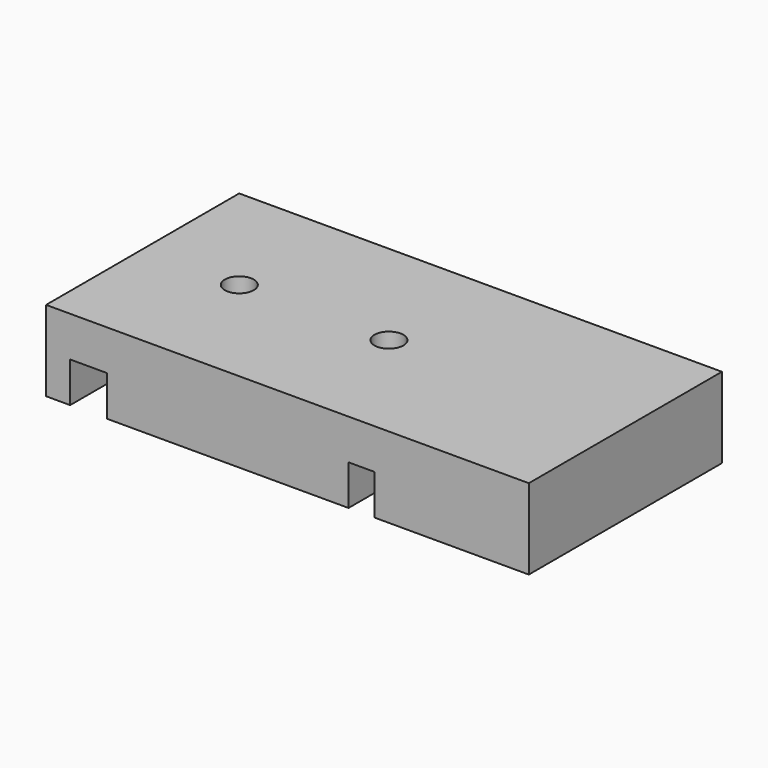
from build123d import *

# Parameters (mm, degrees)
F0_W     = 60
F0_H     = 30
F1_DEPTH = 5
F2_W     = 3.2
F2_H     = 30
F2_W_2   = 4.6
F3_DEPTH = 5
F4_R     = 1.8
F5_DEPTH = 26
F6_R     = 1.8
F7_DEPTH = 26


with BuildPart() as f1:
    # F0 (on Top) → F1 (new body, symmetric)
    with BuildSketch(Plane.XY):
        Rectangle(F0_W, F0_H)
    extrude(amount=F1_DEPTH, both=True)

    # F2 (on face) → F3 (cut)
    with BuildSketch(Plane(origin=(0, 0, -5), x_dir=(1, 0, 0), z_dir=(0, 0, -1))):
        with Locations((9.191833, 0)):
            Rectangle(F2_W, F2_H)
        with Locations((-24.708167, 0)):
            Rectangle(F2_W_2, F2_H)
    extrude(amount=-F3_DEPTH, mode=Mode.SUBTRACT)

    # F4 (on face) → F5 (cut)
    with BuildSketch(Plane.XY.offset(5)):
        with Locations((-17.986729, 0)):
            Circle(F4_R)
    extrude(amount=-F5_DEPTH, mode=Mode.SUBTRACT)

    # F6 (on face) → F7 (cut)
    with BuildSketch(Plane.XY.offset(5)):
        with Locations((0.613271, 0)):
            Circle(F6_R)
    extrude(amount=-F7_DEPTH, mode=Mode.SUBTRACT)


solid = f1.part
